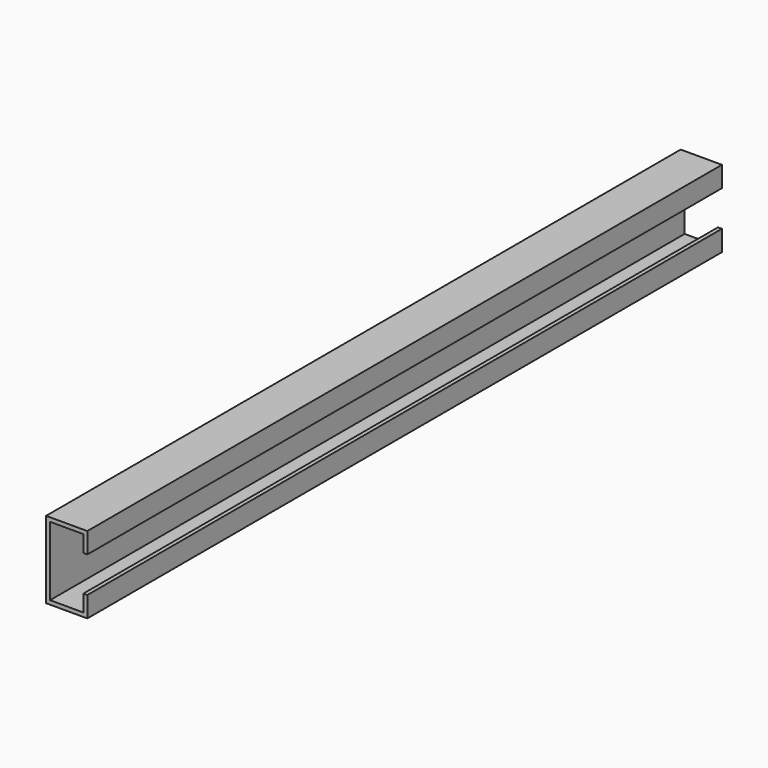
from build123d import *

# Parameters (mm, degrees)
F0_W     = 26
F0_H     = 48.5
F2_DEPTH = 500
F3_DEPTH = 500


with BuildPart() as f2:
    # F0 (on Front) → F2 (new body)
    with BuildSketch(Plane.XZ):
        with Locations((13, 0)):
            Rectangle(F0_W, F0_H)
    extrude(amount=F2_DEPTH)

    # F1 (on Front) → F3 (cut, through all)
    with BuildSketch(Plane.XZ):
        Polygon((23.5, 11.25), (23.5, 21.75), (2.5, 21.75), (2.5, -21.75), (23.5, -21.75), (23.5, -11.25), (26, -11.25), (26, 11.25), align=None)
    extrude(amount=F3_DEPTH, mode=Mode.SUBTRACT)


solid = f2.part
